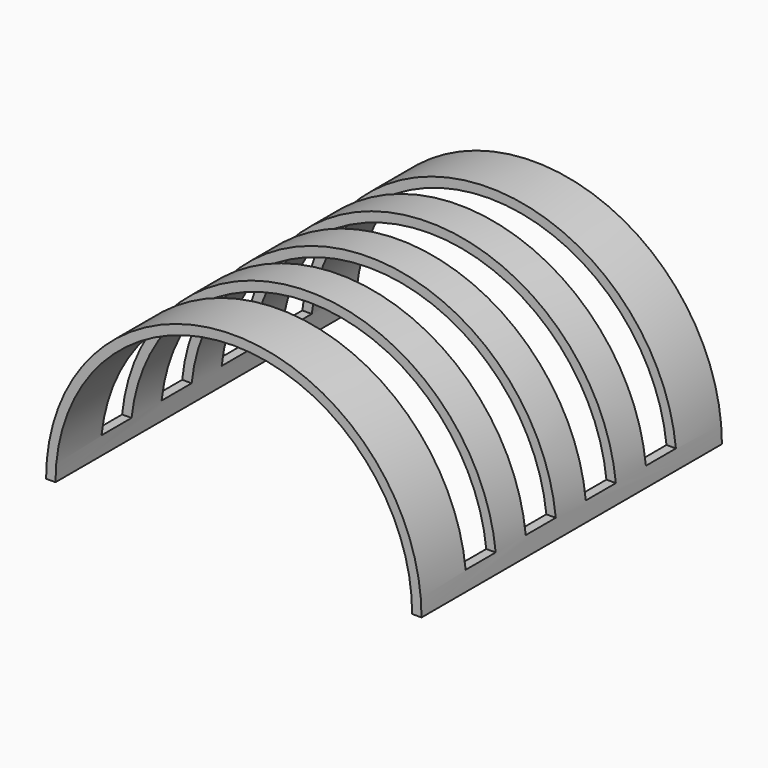
from build123d import *

# Parameters (mm, degrees)
F1_DEPTH = 50
F2_W     = 10
F2_H     = 57.955864
F3_DEPTH = 55


with BuildPart() as f1:
    # F0 (on Front) → F1 (new body, symmetric)
    with BuildSketch(Plane.XZ):
        with BuildLine():
            ThreePointArc((-47.5, 0), (0, 47.5), (47.5, 0))
            Line((47.5, 0), (50, 0))
            ThreePointArc((50, 0), (0, 50), (-50, 0))
            Line((-50, 0), (-47.5, 0))
        make_face()
    extrude(amount=F1_DEPTH, both=True)

    # F2 (on Right) → F3 (cut, symmetric)
    with BuildSketch(Plane.YZ):
        with Locations((-30, 33.977932)):
            Rectangle(F2_W, F2_H)
        with Locations((30, 33.977932)):
            Rectangle(F2_W, F2_H)
        with Locations((-10, 33.977932)):
            Rectangle(F2_W, F2_H)
        with Locations((10, 33.977932)):
            Rectangle(F2_W, F2_H)
    extrude(amount=F3_DEPTH, both=True, mode=Mode.SUBTRACT)


solid = f1.part
